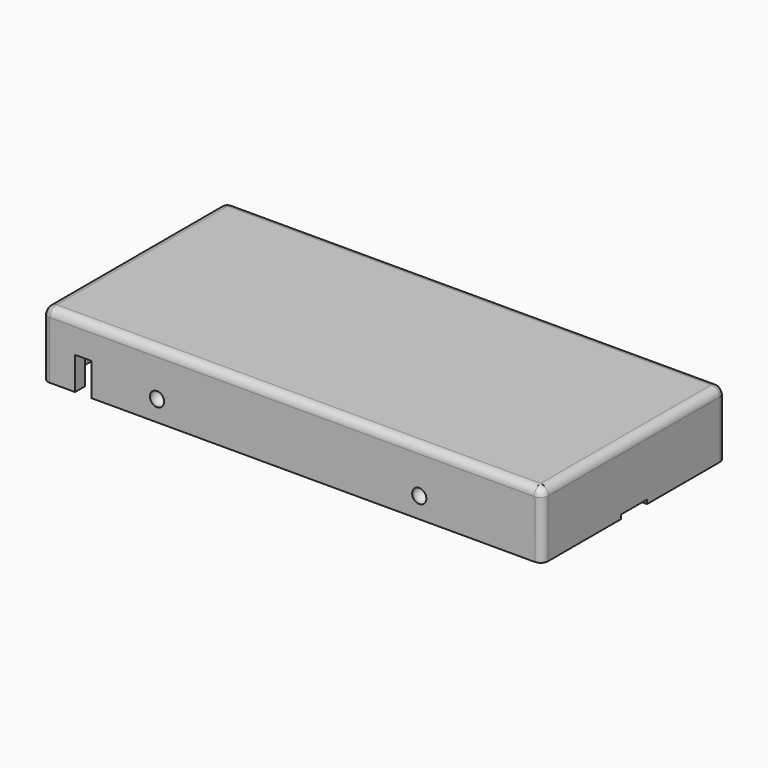
from build123d import *

# Parameters (mm, degrees)
BOX015_W     = 2
BOX015_H     = 4
BOX015_DEPTH = 0.5
BOX014_W     = 2
BOX014_H     = 4
BOX014_DEPTH = 0.5
BOX004_W     = 2
BOX004_H     = 2
BOX004_DEPTH = 6
BOX001_W     = 58.5
BOX001_H     = 25
BOX001_DEPTH = 8
BOX002_W     = 61
BOX002_H     = 28
BOX002_DEPTH = 8
FILLET_R     = 1
FILLET004_R  = 0.9


with BuildPart() as obj1:
    # Box015 → Box015 (new body)
    with BuildSketch(Plane(origin=(56.25, 8, 0), x_dir=(1, 0, 0), z_dir=(0, 0, 1))):
        with Locations((1, 2)):
            Rectangle(BOX015_W, BOX015_H)
    extrude(amount=BOX015_DEPTH)


with BuildPart() as obj2:
    # Box014 → Box014 (new body)
    with BuildSketch(Plane(origin=(-5.25, 8, 0), x_dir=(1, 0, 0), z_dir=(0, 0, 1))):
        with Locations((1, 2)):
            Rectangle(BOX014_W, BOX014_H)
    extrude(amount=BOX014_DEPTH)


with BuildPart() as obj3:
    # Box004 → Box004 (new body)
    with BuildSketch(Plane(origin=(0, -4.25, -2), x_dir=(1, 0, 0), z_dir=(0, 0, 1))):
        with Locations((1, 1)):
            Rectangle(BOX004_W, BOX004_H)
    extrude(amount=BOX004_DEPTH)


with BuildPart() as obj4:
    # Sphere → Sphere (revolve)
    with BuildSketch(Plane(origin=(10, -2, 2), x_dir=(1, 0, 0), z_dir=(0, -1, 0))):
        with BuildLine():
            ThreePointArc((0, -1), (1, 0), (0, 1))
            Line((0, 1), (0, -1))
        make_face()
    revolve(axis=Axis((10, -2, 2), (0, 0, 1)))


with BuildPart() as obj5:
    # Link006 base: copy of obj4
    add(obj4.part)


with BuildPart() as obj5_1:
    # Link006 placement: moved
    add(obj5.part.moved(Location((32, 24, -0.5))))


with BuildPart() as obj5_2:
    # Link008 placement: moved
    add(obj5_1.part.moved(Location((0, 1.500002, 1))))


with BuildPart() as obj6:
    # Link005 base: copy of obj4
    add(obj4.part)


with BuildPart() as obj6_1:
    # Link005 placement: moved
    add(obj6.part.moved(Location((0, 24, -0.5))))


with BuildPart() as obj6_2:
    # Link007 placement: moved
    add(obj6_1.part.moved(Location((0, 1.5, 0.999999))))


with BuildPart() as obj7:
    # Link004 base: copy of obj4
    add(obj4.part)


with BuildPart() as obj7_1:
    # Link004 placement: moved
    add(obj7.part.moved(Location((0, -1.500001, 0.5))))


with BuildPart() as obj8:
    # Link002 base: copy of obj4
    add(obj4.part)


with BuildPart() as obj8_1:
    # Link002 placement: moved
    add(obj8.part.moved(Location((32, 0, -0.5))))


with BuildPart() as obj8_2:
    # Link003 placement: moved
    add(obj8_1.part.moved(Location((0, -1.5, 1))))


with BuildPart() as base:
    # Box001 → Box001 (new body)
    with BuildSketch(Plane(origin=(-2.75, -2.5, -2), x_dir=(1, 0, 0), z_dir=(0, 0, 1))):
        with Locations((29.25, 12.5)):
            Rectangle(BOX001_W, BOX001_H)
    extrude(amount=BOX001_DEPTH)


with BuildPart() as cut014:
    # Box002 → Box002 (new body)
    with BuildSketch(Plane(origin=(-4, -4, 0), x_dir=(1, 0, 0), z_dir=(0, 0, 1))):
        with Locations((30.5, 14)):
            Rectangle(BOX002_W, BOX002_H)
    extrude(amount=BOX002_DEPTH)

    # Cut001: cut Base
    add(base.part, mode=Mode.SUBTRACT)

    # Cut002: cut obj8
    add(obj8_2.part, mode=Mode.SUBTRACT)

    # Cut003: cut obj7
    add(obj7_1.part, mode=Mode.SUBTRACT)

    # Cut004: cut obj6
    add(obj6_2.part, mode=Mode.SUBTRACT)

    # Cut005: cut obj5
    add(obj5_2.part, mode=Mode.SUBTRACT)

    # Cut007: cut obj3
    add(obj3.part, mode=Mode.SUBTRACT)

    # Fillet
    fillet_edges = [cut014.edges().sort_by_distance(p)[0] for p in [
        (-4, 10, 8),
        (26.5, -4, 8),
        (26.5, 24, 8),
        (57, 10, 8),
    ]]
    fillet(fillet_edges, radius=FILLET_R)

    # Fillet004
    fillet004_edges = [cut014.edges().sort_by_distance(p)[0] for p in [
        (-4, -4, 3.5),
        (-4, 24, 3.5),
        (57, -4, 3.5),
        (57, 24, 3.5),
    ]]
    fillet(fillet004_edges, radius=FILLET004_R)

    # Cut: cut obj2
    add(obj2.part, mode=Mode.SUBTRACT)

    # Cut012: cut obj1
    add(obj1.part, mode=Mode.SUBTRACT)


solid = cut014.part
